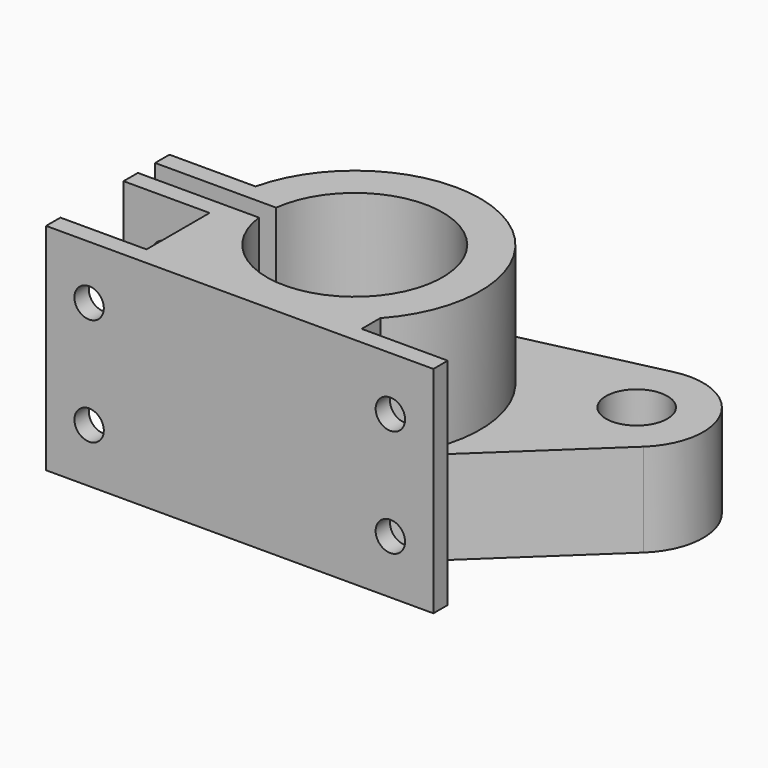
from build123d import *

# Parameters (mm, degrees)
F0_W     = 12
F0_H     = 2.5
F1_DEPTH = 30
F3_D     = 4.1
F5_D     = 4.1
F5_DEPTH = 2.501
F0_R     = 4.2799
F6_DEPTH = 13


with BuildPart() as f1:
    # F0 (on Top) → F1 (new body)
    with BuildSketch(Plane.XY):
        with Locations((-23.0367250374, -16.25)):
            Rectangle(F0_W, F0_H)
        with Locations((18.9632749626, -16.25)):
            Rectangle(F0_W, F0_H)
        with BuildLine():
            ThreePointArc((-12.1578164158, 1.5), (12.25, 0), (-12.1578164158, -1.5))
            Line((-12.1578164158, -1.5), (-29.0367250374, -1.5))
            Line((-29.0367250374, -1.5), (-29.0367250374, -4))
            Line((-29.0367250374, -4), (-17.0367250374, -4))
            Line((-17.0367250374, -4), (-17.0367250374, -15))
            Line((-17.0367250374, -15), (-17.0367250374, -17.5))
            Line((-17.0367250374, -17.5), (12.9632749626, -17.5))
            Line((12.9632749626, -17.5), (12.9632749626, -15))
            Line((12.9632749626, -15), (12.9632749626, -11.7559985643))
            ThreePointArc((12.9632749626, -11.7559985643), (15.1017388634, 8.8423686477), (-3.9079399616, 17.0580774197))
            ThreePointArc((-3.9079399616, 17.0580774197), (-12.340911411, 12.4077357139), (-17.0367250374, 4))
            Line((-17.0367250374, 4), (-29.0367250374, 4))
            Line((-29.0367250374, 4), (-29.0367250374, 1.5))
            Line((-29.0367250374, 1.5), (-12.1578164158, 1.5))
        make_face()
    extrude(amount=F1_DEPTH)

    # F3 (through all)
    with Locations(Plane(origin=(0, 4, 0), x_dir=(-1, 0, 0), z_dir=(0, 1, 0))):
        with Locations((23.0367250374, 7.5), (23.0367250374, 22.5)):
            Hole(F3_D / 2)

    # F5 (through all, one way)
    with BuildSketch(Plane(origin=(0, -15, 0), x_dir=(-1, 0, 0), z_dir=(0, 1, 0))):
        with Locations((-18.9632749626, 22.5), (-18.9632749626, 7.5)):
            Circle(F5_D / 2)
    extrude(amount=-F5_DEPTH, mode=Mode.SUBTRACT)

    # F0 (on Top) → F6 (join)
    with BuildSketch(Plane.XY):
        with BuildLine():
            Line((25.4464586396, 23.7830572941), (-3.9079399616, 17.0580774197))
            ThreePointArc((-3.9079399616, 17.0580774197), (15.1017388634, 8.8423686477), (12.9632749626, -11.7559985643))
            Line((12.9632749626, -11.7559985643), (33.8875290885, 7.9880305701))
            ThreePointArc((33.8875290885, 7.9880305701), (19.3342866208, 10.3636090033), (25.4464586396, 23.7830572941))
        make_face()
        with BuildLine():
            ThreePointArc((36.7986610424, 14.7375), (33.3017440504, 21.9951615751), (25.4464586396, 23.7830572941))
            ThreePointArc((25.4464586396, 23.7830572941), (19.3342866208, 10.3636090033), (33.8875290885, 7.9880305701))
            ThreePointArc((33.8875290885, 7.9880305701), (36.0398547105, 11.062243994), (36.7986610424, 14.7375))
        make_face()
        with Locations((27.5187610424, 14.7375)):
            Circle(F0_R, mode=Mode.SUBTRACT)
    extrude(amount=F6_DEPTH)


solid = f1.part
